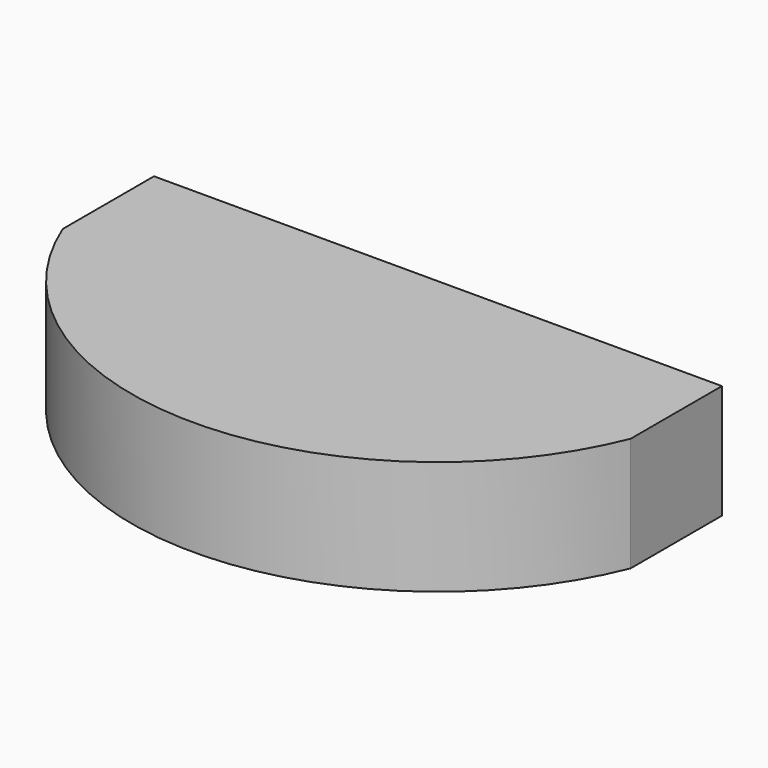
from build123d import *

# Parameters (mm, degrees)
F1_DEPTH = 3


with BuildPart() as f1:
    # F0 (on Top) → F1 (new body)
    with BuildSketch(Plane.XY):
        with BuildLine():
            Line((0, -3), (-7.46546, -3))
            ThreePointArc((-7.46546, -3), (0, -8.045687), (7.46546, -3))
            Line((7.46546, -3), (0, -3))
        make_face()
        Polygon((-7.46546, 0), (-7.46546, -3), (0, -3), (7.46546, -3), (7.46546, 0), (0, 0), align=None)
    extrude(amount=F1_DEPTH)


solid = f1.part
